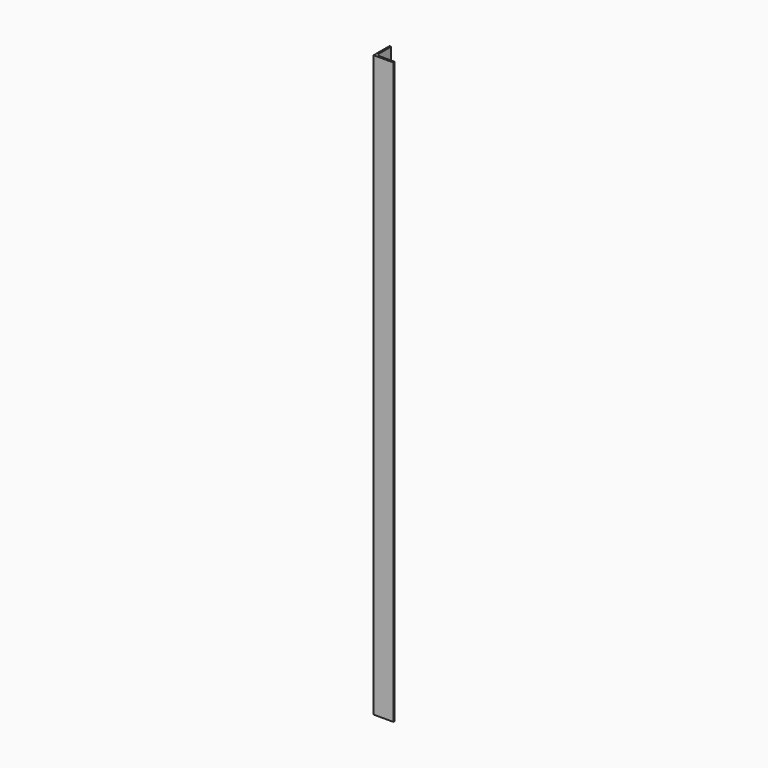
from build123d import *

# Parameters (mm, degrees)
F1_DEPTH = 558.8


with BuildPart() as f1:
    # F0 (on Top) → F1 (new body)
    with BuildSketch(Plane.XY):
        with BuildLine():
            Line((0, 19.05), (0, 0))
            Line((0, 0), (19.05, 0))
            Line((19.05, 0), (19.05, 1.0795))
            ThreePointArc((19.05, 1.0795), (18.90121, 1.43871), (18.542, 1.5875))
            Line((18.542, 1.5875), (4.7625, 1.5875))
            ThreePointArc((4.7625, 1.5875), (2.517436, 2.517436), (1.5875, 4.7625))
            Line((1.5875, 4.7625), (1.5875, 18.542))
            ThreePointArc((1.5875, 18.542), (1.43871, 18.90121), (1.0795, 19.05))
            Line((1.0795, 19.05), (0, 19.05))
        make_face()
    extrude(amount=F1_DEPTH)


solid = f1.part
